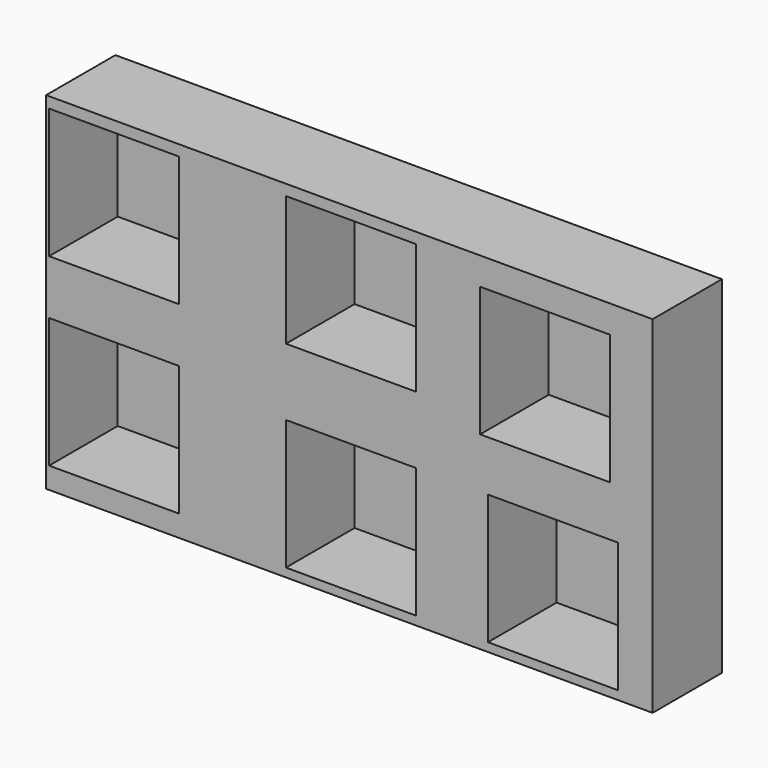
from build123d import *

# Parameters (mm, degrees)
F0_W     = 177.8
F0_H     = 101.6
F0_W_2   = 38.1
F0_H_2   = 38.1
F1_DEPTH = 25.4
F2_DEPTH = 0.254


with BuildPart() as f1:
    # F0 (on Front) → F1 (new body)
    with BuildSketch(Plane.XZ):
        with Locations((6.545865, 10.16)):
            Rectangle(F0_W, F0_H)
        with Locations((-62.417315, -15.311638)):
            Rectangle(F0_W_2, F0_H_2, mode=Mode.SUBTRACT)
        with Locations((7.015266, -19.05)):
            Rectangle(F0_W_2, F0_H_2, mode=Mode.SUBTRACT)
        with Locations((66.230962, -19.05)):
            Rectangle(F0_W_2, F0_H_2, mode=Mode.SUBTRACT)
        with Locations((-62.417315, 38.729876)):
            Rectangle(F0_W_2, F0_H_2, mode=Mode.SUBTRACT)
        with Locations((63.931333, 33.843145)):
            Rectangle(F0_W_2, F0_H_2, mode=Mode.SUBTRACT)
        with Locations((7.015266, 38.729876)):
            Rectangle(F0_W_2, F0_H_2, mode=Mode.SUBTRACT)
    extrude(amount=F1_DEPTH)

    # F0 (on Front) → F2 (join)
    with BuildSketch(Plane.XZ):
        with Locations((-62.417315, 38.729876)):
            Rectangle(F0_W_2, F0_H_2)
        with Locations((7.015266, 38.729876)):
            Rectangle(F0_W_2, F0_H_2)
        with Locations((63.931333, 33.843145)):
            Rectangle(F0_W_2, F0_H_2)
        with Locations((66.230962, -19.05)):
            Rectangle(F0_W_2, F0_H_2)
        with Locations((7.015266, -19.05)):
            Rectangle(F0_W_2, F0_H_2)
        with Locations((-62.417315, -15.311638)):
            Rectangle(F0_W_2, F0_H_2)
    extrude(amount=F2_DEPTH)


solid = f1.part
